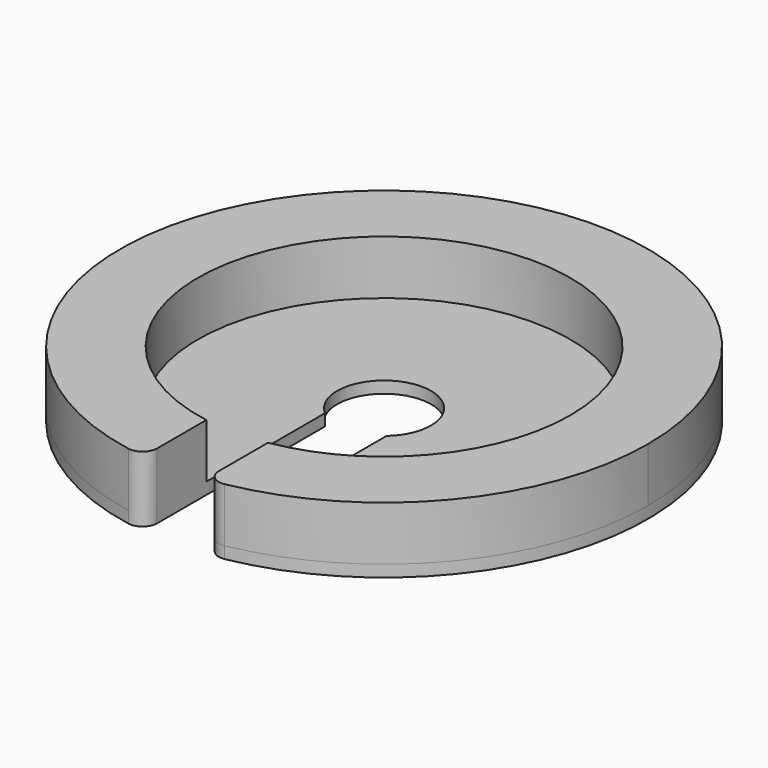
from build123d import *

# Parameters (mm, degrees)
F1_DEPTH = 1.016
F3_DEPTH = 4.699
F4_R     = 1.27


with BuildPart() as f1:
    # F0 (on Top) → F1 (new body)
    with BuildSketch(Plane.XY):
        with BuildLine():
            ThreePointArc((-2.667, -3.0664649028), (0, 4.064), (2.667, -3.0664649028))
            Line((2.667, -3.0664649028), (2.667, -22.7038919791))
            ThreePointArc((2.667, -22.7038919791), (0, 22.86), (-2.667, -22.7038919791))
            Line((-2.667, -22.7038919791), (-2.667, -3.0664649028))
        make_face()
    extrude(amount=F1_DEPTH)

    # F2 (on face) → F3 (join)
    with BuildSketch(Plane.XY.offset(1.016)):
        with BuildLine():
            ThreePointArc((2.667, -22.7038919791), (17.0813819699, -15.1923003525), (22.86, 0))
            ThreePointArc((22.86, 0), (-15.1923003525, 17.0813819699), (-2.667, -22.7038919791))
            Line((-2.667, -22.7038919791), (-2.667, -15.9069718048))
            ThreePointArc((-2.667, -15.9069718048), (-10.4194193216, 12.3117968632), (16.129, 0))
            ThreePointArc((16.129, 0), (12.3117968632, -10.4194193216), (2.667, -15.9069718048))
            Line((2.667, -15.9069718048), (2.667, -22.7038919791))
        make_face()
    extrude(amount=F3_DEPTH)

    # F4
    f4_edges = [f1.edges().sort_by_distance(p)[0] for p in [
        (-2.667, -22.703892, 2.8575),
        (2.667, -22.703892, 2.8575),
    ]]
    fillet(f4_edges, radius=F4_R)


solid = f1.part
